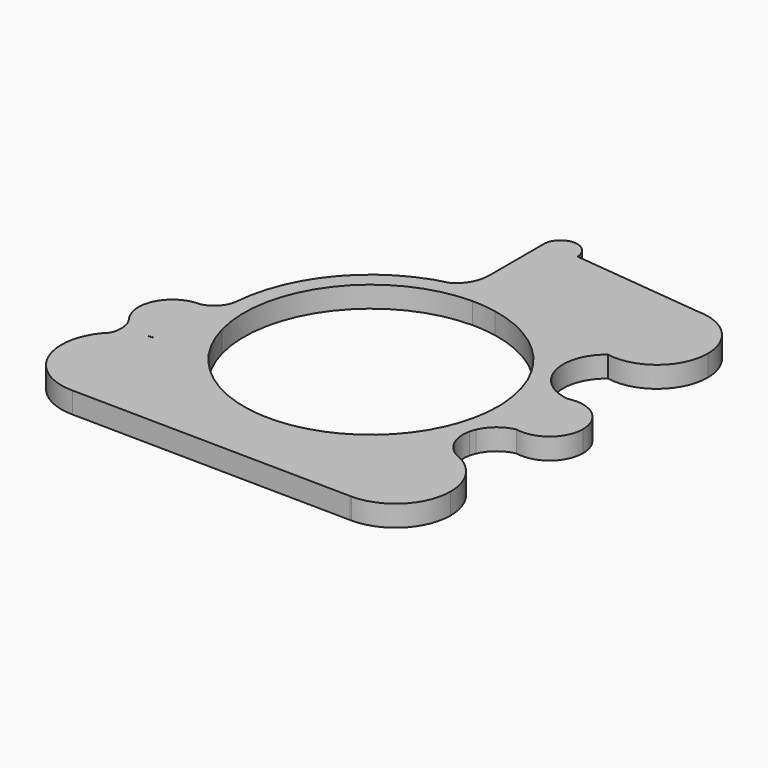
from build123d import *

# Parameters (mm, degrees)
F1_DEPTH = 5


with BuildPart() as f1:
    # F0 (on Top) → F1 (new body)
    with BuildSketch(Plane.XY):
        with BuildLine():
            ThreePointArc((0, 34), (3.2587555857, 33.8434707445), (6.4875058428, 33.3753242372))
            ThreePointArc((6.4875058428, 33.3753242372), (20.2245672544, 27.3306948205), (30.0209102084, 15.9607315076))
            ThreePointArc((30.0209102084, 15.9607315076), (29.0794581658, 22.9667223471), (32.8725193204, 28.9318649833))
            ThreePointArc((32.8725193204, 28.9318649833), (23.0476185494, 41.8097470114), (35, 52.7417687068))
            Line((35, 52.7417687068), (4, 56))
            ThreePointArc((4, 56), (0.179921966, 52.0040485381), (-3.9838140431, 55.6405202785))
            Line((-3.9838140431, 55.6405202785), (-3.9838140431, 39.8343790556))
            ThreePointArc((-3.9838140431, 39.8343790556), (-4.947508544, 36.0277526064), (-7.6064152741, 33.1382324012))
            ThreePointArc((-7.6064152741, 33.1382324012), (-3.8275382662, 33.7838711639), (0, 34))
        make_face()
        with BuildLine():
            ThreePointArc((11.6323598151, 39.2650873379), (10.1766726962, 36.1785890044), (6.8691238336, 35.3385786041))
            ThreePointArc((6.8691238336, 35.3385786041), (5.088046934, 42.3515856715), (11.6323598151, 39.2650873379))
        make_face(mode=Mode.SUBTRACT)
        with BuildLine():
            ThreePointArc((18.9205391147, -28.2491274132), (15.9130639923, -30.0462043256), (12.7366241761, -31.5242510553))
            ThreePointArc((12.7366241761, -31.5242510553), (-7.8635142897, -33.0781671653), (-25.560544226, -22.4200485921))
            ThreePointArc((-25.560544226, -22.4200485921), (-23.167121621, -26.4126243079), (-22.3336934435, -30.9924201643))
            ThreePointArc((-22.3336934435, -30.9924201643), (-26.1413052881, -40.1848083197), (-35.3336934435, -43.9924201643))
            Line((-35.3336934435, -43.9924201643), (31.0227685195, -44.9255836818))
            ThreePointArc((31.0227685195, -44.9255836818), (20.8669341418, -39.5661814055), (18.9205391147, -28.2491274132))
        make_face()
        with BuildLine():
            ThreePointArc((18.9842637366, -37.0873541827), (12.7474921228, -40.4035044729), (13.485837363, -33.3786187644))
            ThreePointArc((13.485837363, -33.3786187644), (17.2210353505, -33.7712038925), (18.9842637366, -37.0873541827))
        make_face(mode=Mode.SUBTRACT)
        with BuildLine():
            ThreePointArc((-22.3336934435, -30.9924201643), (-23.167121621, -26.4126243079), (-25.560544226, -22.4200485921))
            ThreePointArc((-25.560544226, -22.4200485921), (-30.4654264554, -18.9383761734), (-36.4125185886, -18.0372614888))
            ThreePointArc((-36.4125185886, -18.0372614888), (-37.3727380033, -18.2522274842), (-38.3520844578, -18.3476854622))
            ThreePointArc((-38.3520844578, -18.3476854622), (-41.5473016914, -19.573529126), (-44.3119009512, -21.5907293616))
            ThreePointArc((-44.3119009512, -21.5907293616), (-47.4006313408, -35.8286387059), (-35.3336934435, -43.9924201643))
            ThreePointArc((-35.3336934435, -43.9924201643), (-26.1413052881, -40.1848083197), (-22.3336934435, -30.9924201643))
        make_face()
        with BuildLine():
            ThreePointArc((27.9208578423, -19.4016931568), (23.8348146721, -24.2466824441), (18.9205391147, -28.2491274132))
            ThreePointArc((18.9205391147, -28.2491274132), (20.8669341418, -39.5661814055), (31.0227685195, -44.9255836818))
            Line((31.0227685195, -44.9255836818), (31.3883313218, -44.9307245507))
            ThreePointArc((31.3883313218, -44.9307245507), (40.5807194772, -41.1231127061), (44.3883313218, -31.9307245507))
            ThreePointArc((44.3883313218, -31.9307245507), (42.4899554696, -25.1665585799), (37.3492634325, -20.3779201997))
            ThreePointArc((37.3492634325, -20.3779201997), (36.6841658821, -20.1148620294), (36.0452212927, -19.7934523778))
            ThreePointArc((36.0452212927, -19.7934523778), (32.0144676642, -18.9458120257), (27.9208578423, -19.4016931568))
        make_face()
        with BuildLine():
            ThreePointArc((35, 52.7417687068), (23.0476185494, 41.8097470114), (32.8725193204, 28.9318649833))
            ThreePointArc((32.8725193204, 28.9318649833), (42.6964352737, 31.5349840304), (47, 40.7417687068))
            ThreePointArc((47, 40.7417687068), (43.4852813742, 49.227050081), (35, 52.7417687068))
        make_face()
        with BuildLine():
            Line((-30.9096264413, -8.2822094433), (-28.9777747887, -7.7645713531))
            ThreePointArc((-28.9777747887, -7.7645713531), (-23.8006002087, 18.2628428703), (0, 30))
            Line((0, 30), (0, 34))
            ThreePointArc((0, 34), (-3.8275382662, 33.7838711639), (-7.6064152741, 33.1382324012))
            ThreePointArc((-7.6064152741, 33.1382324012), (-25.660218261, 22.3059005377), (-33.8743660313, 2.920158553))
            ThreePointArc((-33.8743660313, 2.920158553), (-33.8791997031, 2.859033117), (-33.8846780738, 2.7979620864))
            ThreePointArc((-33.8846780738, 2.7979620864), (-33.9945520092, -0.6086326428), (-33.7628054009, -4.0091110564))
            ThreePointArc((-33.7628054009, -4.0091110564), (-31.9838278865, -5.9103681889), (-30.9096264413, -8.2822094433))
        make_face()
        with BuildLine():
            Line((12.7366241761, -31.5242510553), (11.2381978025, -27.815515637))
            ThreePointArc((11.2381978025, -27.815515637), (-13.3859343933, -26.8480308481), (-28.9777747887, -7.7645713531))
            Line((-28.9777747887, -7.7645713531), (-30.9096264413, -8.2822094433))
            ThreePointArc((-30.9096264413, -8.2822094433), (-30.7054741606, -9.3085522663), (-30.6370330516, -10.3527618041))
            ThreePointArc((-30.6370330516, -10.3527618041), (-30.7902425374, -11.9109269517), (-31.2440027084, -13.409410679))
            ThreePointArc((-31.2440027084, -13.409410679), (-28.7573823045, -18.1387144802), (-25.560544226, -22.4200485921))
            ThreePointArc((-25.560544226, -22.4200485921), (-7.8635142897, -33.0781671653), (12.7366241761, -31.5242510553))
        make_face()
        with BuildLine():
            ThreePointArc((-31.2440027084, -13.409410679), (-32.1255230387, -11.133317991), (-32.8414780938, -8.7998475335))
            ThreePointArc((-32.8414780938, -8.7998475335), (-33.3881780569, -6.4210253107), (-33.7628054009, -4.0091110564))
            ThreePointArc((-33.7628054009, -4.0091110564), (-36.0190923418, -2.7932389064), (-38.5440935464, -2.3533016818))
            ThreePointArc((-38.5440935464, -2.3533016818), (-45.7991682525, -6.7885200385), (-44.9624546785, -15.2506226884))
            ThreePointArc((-44.9624546785, -15.2506226884), (-42.0311129081, -17.597085232), (-38.3520844578, -18.3476854622))
            ThreePointArc((-38.3520844578, -18.3476854622), (-37.388172897, -18.1557884341), (-36.4125185886, -18.0372614888))
            ThreePointArc((-36.4125185886, -18.0372614888), (-33.3005039545, -16.3127498239), (-31.2440027084, -13.409410679))
        make_face()
        with BuildLine():
            ThreePointArc((-34.6370330516, -10.3527618041), (-42.6028124971, -10.874866573), (-34.7733297464, -9.3174856237))
            ThreePointArc((-34.7733297464, -9.3174856237), (-34.6712536061, -9.8306570352), (-34.6370330516, -10.3527618041))
        make_face(mode=Mode.SUBTRACT)
        with BuildLine():
            ThreePointArc((33.271358913, 7.0011910473), (33.6739196359, 4.6975670679), (33.9171777088, 2.3717201073))
            ThreePointArc((33.9171777088, 2.3717201073), (33.9792881186, 1.1865828879), (34, 0))
            ThreePointArc((34, 0), (33.9804798474, -1.1519502322), (33.9219418037, -2.3025777442))
            ThreePointArc((33.9219418037, -2.3025777442), (35.9392211989, -4.0141594109), (38.4076591967, -4.9658640978))
            ThreePointArc((38.4076591967, -4.9658640978), (44.995072344, -3.3359059143), (47.9023668124, 2.7958486899))
            ThreePointArc((47.9023668124, 2.7958486899), (44.883440045, 9.0171896164), (38.1281928152, 10.4955794883))
            ThreePointArc((38.1281928152, 10.4955794883), (35.3570903597, 9.2246822233), (33.271358913, 7.0011910473))
        make_face()
        with BuildLine():
            ThreePointArc((43.9025620104, 2.7902589498), (40.0421599972, -1.2073043583), (35.9123058094, 2.5112330548))
            ThreePointArc((35.9123058094, 2.5112330548), (39.7629640236, 6.7878222578), (43.9025620104, 2.7902589498))
        make_face(mode=Mode.SUBTRACT)
        with BuildLine():
            ThreePointArc((5.7242698613, 29.4488155034), (22.4686716237, 19.8786014465), (29.9269215078, 2.0926942123))
            Line((29.9269215078, 2.0926942123), (32.0819236255, 2.2433866401))
            ThreePointArc((32.0819236255, 2.2433866401), (32.2990926681, 4.7166747391), (33.271358913, 7.0011910473))
            ThreePointArc((33.271358913, 7.0011910473), (31.9753518136, 11.5575462965), (30.0586464994, 15.8895491007))
            ThreePointArc((30.0586464994, 15.8895491007), (30.0397994382, 15.9251514817), (30.0209102084, 15.9607315076))
            ThreePointArc((30.0209102084, 15.9607315076), (20.2245672544, 27.3306948205), (6.4875058428, 33.3753242372))
            Line((6.4875058428, 33.3753242372), (5.7242698613, 29.4488155034))
        make_face()
        with BuildLine():
            ThreePointArc((29.9269215078, 2.0926942123), (29.9817248106, 1.0469849011), (30, 0))
            ThreePointArc((30, 0), (24.8711271767, -16.7757871041), (11.2381978025, -27.815515637))
            Line((11.2381978025, -27.815515637), (12.7366241761, -31.5242510553))
            ThreePointArc((12.7366241761, -31.5242510553), (15.9130639923, -30.0462043256), (18.9205391147, -28.2491274132))
            ThreePointArc((18.9205391147, -28.2491274132), (22.2750198295, -22.6599342044), (27.9208578423, -19.4016931568))
            ThreePointArc((27.9208578423, -19.4016931568), (30.324201903, -15.3766959697), (32.1510538984, -11.0593730936))
            ThreePointArc((32.1510538984, -11.0593730936), (32.3383257047, -10.3714194358), (32.5861056385, -9.7028717046))
            ThreePointArc((32.5861056385, -9.7028717046), (33.4592465743, -6.0397697541), (33.9219418037, -2.3025777442))
            ThreePointArc((33.9219418037, -2.3025777442), (32.6411943682, -0.1756075), (32.0819236255, 2.2433866401))
            Line((32.0819236255, 2.2433866401), (29.9269215078, 2.0926942123))
        make_face()
        with BuildLine():
            ThreePointArc((43.9025620104, 2.7902589498), (39.7629640236, 6.7878222578), (35.9123058094, 2.5112330548))
            ThreePointArc((35.9123058094, 2.5112330548), (40.0421599972, -1.2073043583), (43.9025620104, 2.7902589498))
        make_face()
        with BuildLine():
            ThreePointArc((11.6323598151, 39.2650873379), (5.088046934, 42.3515856715), (6.8691238336, 35.3385786041))
            ThreePointArc((6.8691238336, 35.3385786041), (10.1766726962, 36.1785890044), (11.6323598151, 39.2650873379))
        make_face()
        with BuildLine():
            ThreePointArc((-34.6370330516, -10.3527618041), (-34.6712536061, -9.8306570352), (-34.7733297464, -9.3174856237))
            ThreePointArc((-34.7733297464, -9.3174856237), (-42.6028124971, -10.874866573), (-34.6370330516, -10.3527618041))
        make_face()
        with BuildLine():
            ThreePointArc((18.9842637366, -37.0873541827), (17.2210353505, -33.7712038925), (13.485837363, -33.3786187644))
            ThreePointArc((13.485837363, -33.3786187644), (12.7474921228, -40.4035044729), (18.9842637366, -37.0873541827))
        make_face()
        with BuildLine():
            Line((-3.9838140431, 56.3594797215), (-3.9838140431, 55.6405202785))
            ThreePointArc((-3.9838140431, 55.6405202785), (0.179921966, 52.0040485381), (4, 56))
            ThreePointArc((4, 56), (0.179921966, 59.9959514619), (-3.9838140431, 56.3594797215))
        make_face()
        with BuildLine():
            ThreePointArc((0, 30), (2.8753725756, 29.861885951), (5.7242698613, 29.4488155034))
            Line((5.7242698613, 29.4488155034), (6.4875058428, 33.3753242372))
            ThreePointArc((6.4875058428, 33.3753242372), (3.2587555857, 33.8434707445), (0, 34))
            Line((0, 34), (0, 30))
        make_face()
        with BuildLine():
            ThreePointArc((27.9208578423, -19.4016931568), (22.2750198295, -22.6599342044), (18.9205391147, -28.2491274132))
            ThreePointArc((18.9205391147, -28.2491274132), (23.8348146721, -24.2466824441), (27.9208578423, -19.4016931568))
        make_face()
        with BuildLine():
            ThreePointArc((32.1510538984, -11.0593730936), (30.324201903, -15.3766959697), (27.9208578423, -19.4016931568))
            ThreePointArc((27.9208578423, -19.4016931568), (32.0144676642, -18.9458120257), (36.0452212927, -19.7934523778))
            ThreePointArc((36.0452212927, -19.7934523778), (32.6494824226, -16.0723086059), (32.1510538984, -11.0593730936))
        make_face()
        with BuildLine():
            ThreePointArc((-36.4125185886, -18.0372614888), (-30.4654264554, -18.9383761734), (-25.560544226, -22.4200485921))
            ThreePointArc((-25.560544226, -22.4200485921), (-28.7573823045, -18.1387144802), (-31.2440027084, -13.409410679))
            ThreePointArc((-31.2440027084, -13.409410679), (-33.3005039545, -16.3127498239), (-36.4125185886, -18.0372614888))
        make_face()
        with BuildLine():
            ThreePointArc((30.0586464994, 15.8895491007), (31.9753518136, 11.5575462965), (33.271358913, 7.0011910473))
            ThreePointArc((33.271358913, 7.0011910473), (35.3570903597, 9.2246822233), (38.1281928152, 10.4955794883))
            ThreePointArc((38.1281928152, 10.4955794883), (33.4188280477, 12.1833542638), (30.0586464994, 15.8895491007))
        make_face()
        with BuildLine():
            ThreePointArc((38.4076591967, -4.9658640978), (35.9392211989, -4.0141594109), (33.9219418037, -2.3025777442))
            ThreePointArc((33.9219418037, -2.3025777442), (33.4592465743, -6.0397697541), (32.5861056385, -9.7028717046))
            ThreePointArc((32.5861056385, -9.7028717046), (34.9069028696, -6.6093115318), (38.4076591967, -4.9658640978))
        make_face()
        with BuildLine():
            ThreePointArc((-44.3119009512, -21.5907293616), (-41.5473016914, -19.573529126), (-38.3520844578, -18.3476854622))
            ThreePointArc((-38.3520844578, -18.3476854622), (-42.0311129081, -17.597085232), (-44.9624546785, -15.2506226884))
            ThreePointArc((-44.9624546785, -15.2506226884), (-43.8132056909, -18.3361288456), (-44.3119009512, -21.5907293616))
        make_face()
        with BuildLine():
            ThreePointArc((-38.5440935464, -2.3533016818), (-36.0190923418, -2.7932389064), (-33.7628054009, -4.0091110564))
            ThreePointArc((-33.7628054009, -4.0091110564), (-33.9945520092, -0.6086326428), (-33.8846780738, 2.7979620864))
            ThreePointArc((-33.8846780738, 2.7979620864), (-35.3600413453, -0.5504405191), (-38.5440935464, -2.3533016818))
        make_face()
        with BuildLine():
            Line((-32.8414780938, -8.7998475335), (-30.9096264413, -8.2822094433))
            ThreePointArc((-30.9096264413, -8.2822094433), (-31.9838278865, -5.9103681889), (-33.7628054009, -4.0091110564))
            ThreePointArc((-33.7628054009, -4.0091110564), (-33.3881780569, -6.4210253107), (-32.8414780938, -8.7998475335))
        make_face()
        with BuildLine():
            ThreePointArc((-30.6370330516, -10.3527618041), (-30.7054741606, -9.3085522663), (-30.9096264413, -8.2822094433))
            Line((-30.9096264413, -8.2822094433), (-32.8414780938, -8.7998475335))
            ThreePointArc((-32.8414780938, -8.7998475335), (-32.1255230387, -11.133317991), (-31.2440027084, -13.409410679))
            ThreePointArc((-31.2440027084, -13.409410679), (-30.7902425374, -11.9109269517), (-30.6370330516, -10.3527618041))
        make_face()
        with BuildLine():
            Line((33.9171777088, 2.3717201073), (32.0819236255, 2.2433866401))
            ThreePointArc((32.0819236255, 2.2433866401), (32.6411943682, -0.1756075), (33.9219418037, -2.3025777442))
            ThreePointArc((33.9219418037, -2.3025777442), (33.9804798474, -1.1519502322), (34, 0))
            ThreePointArc((34, 0), (33.9792881186, 1.1865828879), (33.9171777088, 2.3717201073))
        make_face()
        with BuildLine():
            ThreePointArc((33.271358913, 7.0011910473), (32.2990926681, 4.7166747391), (32.0819236255, 2.2433866401))
            Line((32.0819236255, 2.2433866401), (33.9171777088, 2.3717201073))
            ThreePointArc((33.9171777088, 2.3717201073), (33.6739196359, 4.6975670679), (33.271358913, 7.0011910473))
        make_face()
    extrude(amount=F1_DEPTH)


solid = f1.part
